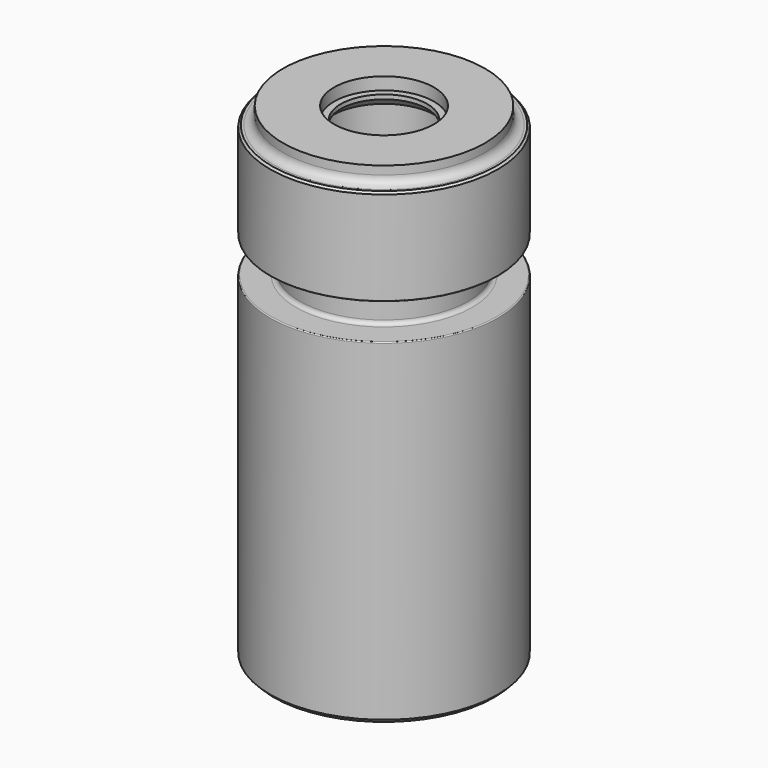
from build123d import *

# Parameters (mm, degrees)
F2_R      = 6.35
F3_SIZE2  = 1.524
F3_SIZE   = 1.524
F4_R      = 32.6136
F5_DEPTH  = 366.015
F6_R      = 57.2008
F6_R_2    = 32.6136
F7_DEPTH  = 145.542
F8_R      = 37.6936
F8_R_2    = 32.6136
F9_DEPTH  = 9.398
F10_R     = 38.8874
F11_DEPTH = 347.091
F18_R     = 3.048
F19_SIZE2 = 3.048
F19_SIZE  = 3.048
F20_R     = 19.05
F21_R     = 0.762


with BuildPart() as f1:
    # F0 (on Front) → F1 (revolve)
    with BuildSketch(Plane.XZ):
        Polygon((76.2, 0), (0, 0), (0, -366.014), (85.9282, -366.014), (85.9282, -112.268), (63.4619, -112.268), (63.4619, -85.344), (85.9282, -85.344), (85.9282, -12.7), (76.2, -12.7), align=None)
    revolve(axis=Axis((0, 0, -183.007), (0, 0, 1)))

    # F2
    f2_edges = [f1.edges().sort_by_distance(p)[0] for p in [
        (-76.2, 0, -12.7),
    ]]
    fillet(f2_edges, radius=F2_R)

    # F3
    f3_edges = [f1.edges().sort_by_distance(p)[0] for p in [
        (-85.9282, 0, -12.7),
    ]]
    chamfer(f3_edges, length=F3_SIZE, length2=F3_SIZE2)

    # F4 (on face) → F5 (cut, through all)
    with BuildSketch(Plane.XY):
        Circle(F4_R)
    extrude(amount=-F5_DEPTH, mode=Mode.SUBTRACT)

    # F6 (on face) → F7 (cut)
    with BuildSketch(Plane(origin=(0, 0, -366.014), x_dir=(1, 0, 0), z_dir=(0, 0, -1))):
        Circle(F6_R)
        Circle(F6_R_2, mode=Mode.SUBTRACT)
    extrude(amount=-F7_DEPTH, mode=Mode.SUBTRACT)

    # F8 (on face) → F9 (cut)
    with BuildSketch(Plane.XY):
        Circle(F8_R)
        Circle(F8_R_2, mode=Mode.SUBTRACT)
    extrude(amount=-F9_DEPTH, mode=Mode.SUBTRACT)

    # F10 (on face) → F11 (cut)
    with BuildSketch(Plane(origin=(0, 0, -366.014), x_dir=(1, 0, 0), z_dir=(0, 0, -1))):
        Circle(F10_R)
    extrude(amount=-F11_DEPTH, mode=Mode.SUBTRACT)

    # F12 (on Front) → F13 (revolve, cut)
    with BuildSketch(Plane.XZ):
        Polygon((-66.7131, -358.49177), (-73.025, -366.014), (-57.2008, -366.014), (-57.2008, -332.356941), align=None)
    revolve(axis=Axis((0, 0, -226.63675), (0, 0, -1)), mode=Mode.SUBTRACT)

    # F14 (on Front) → F15 (revolve, cut)
    with BuildSketch(Plane.XZ):
        Polygon((-66.7131, -329.565), (0, -329.565), (0, -220.472), (0, -162.814), (-38.8874, -162.814), (-38.8874, -188.400308), (-57.404, -220.472), (-57.404, -269.0368), (-57.2008, -269.24), (-57.2008, -274.32), (-66.7131, -274.32), (-66.7131, -302.6664), (-57.2008, -302.6664), (-57.2008, -311.912), (-66.7131, -311.912), align=None)
    revolve(axis=Axis((0, 0, -277.603457), (0, 0, -1)), mode=Mode.SUBTRACT)

    # F16 (on Front) → F17 (revolve, cut)
    with BuildSketch(Plane.XZ):
        Polygon((0, -18.923), (38.8874, -18.923), (32.6136, -12.6492), (0, -12.6492), align=None)
    revolve(axis=Axis((0, 0, -8.811791), (0, 0, -1)), mode=Mode.SUBTRACT)

    # F18
    f18_edges = [f1.edges().sort_by_distance(p)[0] for p in [
        (-63.4619, 0, -112.268),
        (-63.4619, 0, -85.344),
    ]]
    fillet(f18_edges, radius=F18_R)

    # F19
    f19_edges = [f1.edges().sort_by_distance(p)[0] for p in [
        (-85.9282, 0, -366.014),
    ]]
    chamfer(f19_edges, length=F19_SIZE, length2=F19_SIZE2)

    # F20
    f20_edges = [f1.edges().sort_by_distance(p)[0] for p in [
        (66.7131, 0, -358.49177),
    ]]
    fillet(f20_edges, radius=F20_R)

    # F21
    f21_edges = [f1.edges().sort_by_distance(p)[0] for p in [
        (-85.9282, 0, -112.268),
        (-85.9282, 0, -85.344),
    ]]
    fillet(f21_edges, radius=F21_R)


solid = f1.part
